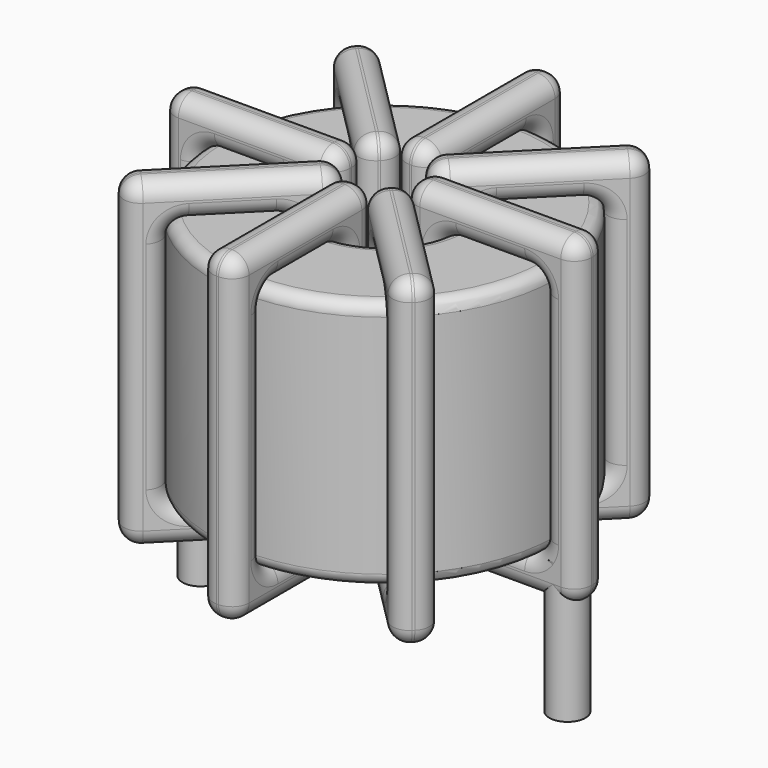
from build123d import *

# Parameters (mm, degrees)
SKETCH001_R       = 0.75
PAD001_DEPTH      = 0.75
PAD001_DEPTH_BACK = 5
SKETCH_R          = 7.15
SKETCH_R_2        = 2.883333
PAD_DEPTH         = 10.4
FILLET_R          = 0.5
SKETCH003_W       = 7.266667
SKETCH003_H       = 13.4
SKETCH003_W_2     = 4.266667
SKETCH003_H_2     = 10.4
PAD002_DEPTH      = 0.75
FILLET001_R       = 0.705
SKETCH004_W       = 7.266667
SKETCH004_H       = 13.4
SKETCH004_W_2     = 4.266667
SKETCH004_H_2     = 10.4
PAD003_DEPTH      = 0.75
FILLET002_R       = 0.705
SKETCH005_W       = 7.266667
SKETCH005_H       = 13.4
SKETCH005_W_2     = 4.266667
SKETCH005_H_2     = 10.4
PAD004_DEPTH      = 0.75
FILLET003_R       = 0.705
SKETCH006_W       = 7.266667
SKETCH006_H       = 13.4
SKETCH006_W_2     = 4.266667
SKETCH006_H_2     = 10.4
PAD005_DEPTH      = 0.75
FILLET004_R       = 0.705


with BuildPart() as pad001:
    # Sketch001 → Pad001 (new body, two sides)
    with BuildSketch(Plane.XY.offset(1.25)) as pad001_sk:
        Circle(SKETCH001_R)
        with Locations((15.24, 0)):
            Circle(SKETCH001_R)
    extrude(amount=PAD001_DEPTH)
    extrude(pad001_sk.sketch, amount=-PAD001_DEPTH_BACK)


with BuildPart() as fillet_body:
    # Sketch → Pad (new body)
    with BuildSketch(Plane.XY.offset(2)):
        with Locations((7.62, 0)):
            Circle(SKETCH_R)
        with Locations((7.62, 0)):
            Circle(SKETCH_R_2, mode=Mode.SUBTRACT)
    extrude(amount=PAD_DEPTH)

    # Fillet
    fillet_edges = [fillet_body.edges().sort_by_distance(p)[0] for p in [
        (4.736667, 0, 12.4),
        (0.47, 0, 12.4),
        (0.47, 0, 2),
    ]]
    fillet(fillet_edges, radius=FILLET_R)


with BuildPart() as fillet001:
    # Sketch003 → Pad002 (new body, symmetric)
    with BuildSketch(Plane(origin=(7.62, 0, 0), x_dir=(1, 0, 0), z_dir=(0, -1, 0))):
        with Locations((-5.016667, 7.2)):
            Rectangle(SKETCH003_W, SKETCH003_H)
        with Locations((-5.016666, 7.2)):
            Rectangle(SKETCH003_W_2, SKETCH003_H_2, mode=Mode.SUBTRACT)
        with Locations((5.016667, 7.2)):
            Rectangle(SKETCH003_W, SKETCH003_H)
        with Locations((5.016666, 7.2)):
            Rectangle(SKETCH003_W_2, SKETCH003_H_2, mode=Mode.SUBTRACT)
    extrude(amount=PAD002_DEPTH, both=True)

    # Fillet001
    fillet001_edges = [fillet001.edges().sort_by_distance(p)[0] for p in [
        (4.736667, 0, 12.4),
        (4.736667, 0, 2),
        (4.736667, 0.75, 7.2),
        (4.736667, -0.75, 7.2),
        (-1.03, 0, 13.9),
        (6.236667, 0, 13.9),
        (2.603333, 0.75, 13.9),
        (2.603333, -0.75, 13.9),
        (6.236667, 0, 0.5),
        (6.236667, 0.75, 7.2),
        (6.236667, -0.75, 7.2),
        (10.503333, 0, 12.4),
        (14.77, 0, 12.4),
        (12.636667, 0.75, 12.4),
        (12.636667, -0.75, 12.4),
        (14.77, 0, 2),
        (14.77, 0.75, 7.2),
        (14.77, -0.75, 7.2),
        (9.003333, 0, 13.9),
        (16.27, 0, 13.9),
        (12.636667, 0.75, 13.9),
        (12.636667, -0.75, 13.9),
        (16.27, 0, 0.5),
        (16.27, 0.75, 7.2),
        (16.27, -0.75, 7.2),
        (0.47, 0, 12.4),
        (2.603333, 0.75, 12.4),
        (2.603333, -0.75, 12.4),
        (10.503333, 0, 2),
        (10.503333, 0.75, 7.2),
        (10.503333, -0.75, 7.2),
        (12.636667, 0.75, 2),
        (12.636667, -0.75, 2),
        (9.003333, 0, 0.5),
        (12.636667, 0.75, 0.5),
        (12.636667, -0.75, 0.5),
        (9.003333, 0.75, 7.2),
        (9.003333, -0.75, 7.2),
        (-1.03, 0, 0.5),
        (2.603333, 0.75, 0.5),
        (2.603333, -0.75, 0.5),
        (-1.03, 0.75, 7.2),
        (-1.03, -0.75, 7.2),
        (0.47, 0, 2),
        (0.47, 0.75, 7.2),
        (0.47, -0.75, 7.2),
        (2.603333, 0.75, 2),
        (2.603333, -0.75, 2),
    ]]
    fillet(fillet001_edges, radius=FILLET001_R)


with BuildPart() as fillet002:
    # Sketch004 → Pad003 (new body, symmetric)
    with BuildSketch(Plane(origin=(7.62, 0, 0), x_dir=(0.707107, 0.707107, 0), z_dir=(0.707107, -0.707107, 0))):
        with Locations((-5.016667, 7.2)):
            Rectangle(SKETCH004_W, SKETCH004_H)
        with Locations((-5.016666, 7.2)):
            Rectangle(SKETCH004_W_2, SKETCH004_H_2, mode=Mode.SUBTRACT)
        with Locations((5.016667, 7.2)):
            Rectangle(SKETCH004_W, SKETCH004_H)
        with Locations((5.016666, 7.2)):
            Rectangle(SKETCH004_W_2, SKETCH004_H_2, mode=Mode.SUBTRACT)
    extrude(amount=PAD003_DEPTH, both=True)

    # Fillet002
    fillet002_edges = [fillet002.edges().sort_by_distance(p)[0] for p in [
        (9.658825, 2.038825, 12.4),
        (12.675813, 5.055813, 2),
        (10.636989, 4.077649, 2),
        (11.697649, 3.016989, 2),
        (13.736474, 6.116474, 0.5),
        (8.598164, 0.978164, 0.5),
        (10.636989, 4.077649, 0.5),
        (11.697649, 3.016989, 0.5),
        (8.598164, 0.978164, 13.9),
        (8.067834, 1.508494, 7.2),
        (9.128494, 0.447834, 7.2),
        (2.564187, -5.055813, 2),
        (2.564187, -5.055813, 12.4),
        (2.033856, -4.525483, 7.2),
        (3.094517, -5.586144, 7.2),
        (5.581175, -2.038825, 2),
        (3.542351, -3.016989, 2),
        (4.603011, -4.077649, 2),
        (6.641836, -0.978164, 13.9),
        (6.641836, -0.978164, 0.5),
        (6.111506, -0.447834, 7.2),
        (7.172166, -1.508494, 7.2),
        (1.503526, -6.116474, 13.9),
        (3.542351, -3.016989, 13.9),
        (4.603011, -4.077649, 13.9),
        (9.658825, 2.038825, 2),
        (9.128494, 2.569155, 7.2),
        (10.189155, 1.508494, 7.2),
        (5.581175, -2.038825, 12.4),
        (3.542351, -3.016989, 12.4),
        (4.603011, -4.077649, 12.4),
        (5.050845, -1.508494, 7.2),
        (6.111506, -2.569155, 7.2),
        (1.503526, -6.116474, 0.5),
        (0.973196, -5.586144, 7.2),
        (2.033856, -6.646804, 7.2),
        (3.542351, -3.016989, 0.5),
        (4.603011, -4.077649, 0.5),
        (13.736474, 6.116474, 13.9),
        (10.636989, 4.077649, 13.9),
        (11.697649, 3.016989, 13.9),
        (13.206144, 6.646804, 7.2),
        (14.266804, 5.586144, 7.2),
        (12.675813, 5.055813, 12.4),
        (10.636989, 4.077649, 12.4),
        (11.697649, 3.016989, 12.4),
        (12.145483, 5.586144, 7.2),
        (13.206144, 4.525483, 7.2),
    ]]
    fillet(fillet002_edges, radius=FILLET002_R)


with BuildPart() as fillet003:
    # Sketch005 → Pad004 (new body, symmetric)
    with BuildSketch(Plane(origin=(7.62, 0, 0), x_dir=(0.707107, -0.707107, 0), z_dir=(-0.707107, -0.707107, 0))):
        with Locations((-5.016667, 7.2)):
            Rectangle(SKETCH005_W, SKETCH005_H)
        with Locations((-5.016666, 7.2)):
            Rectangle(SKETCH005_W_2, SKETCH005_H_2, mode=Mode.SUBTRACT)
        with Locations((5.016667, 7.2)):
            Rectangle(SKETCH005_W, SKETCH005_H)
        with Locations((5.016666, 7.2)):
            Rectangle(SKETCH005_W_2, SKETCH005_H_2, mode=Mode.SUBTRACT)
    extrude(amount=PAD004_DEPTH, both=True)

    # Fillet003
    fillet003_edges = [fillet003.edges().sort_by_distance(p)[0] for p in [
        (5.581175, 2.038825, 12.4),
        (5.581175, 2.038825, 2),
        (6.111506, 2.569155, 7.2),
        (5.050845, 1.508494, 7.2),
        (1.503526, 6.116474, 13.9),
        (6.641836, 0.978164, 13.9),
        (4.603011, 4.077649, 13.9),
        (3.542351, 3.016989, 13.9),
        (6.641836, 0.978164, 0.5),
        (7.172166, 1.508494, 7.2),
        (6.111506, 0.447834, 7.2),
        (9.658825, -2.038825, 12.4),
        (12.675813, -5.055813, 12.4),
        (11.697649, -3.016989, 12.4),
        (10.636989, -4.077649, 12.4),
        (12.675813, -5.055813, 2),
        (13.206144, -4.525483, 7.2),
        (12.145483, -5.586144, 7.2),
        (8.598164, -0.978164, 13.9),
        (13.736474, -6.116474, 13.9),
        (11.697649, -3.016989, 13.9),
        (10.636989, -4.077649, 13.9),
        (13.736474, -6.116474, 0.5),
        (14.266804, -5.586144, 7.2),
        (13.206144, -6.646804, 7.2),
        (2.564187, 5.055813, 12.4),
        (4.603011, 4.077649, 12.4),
        (3.542351, 3.016989, 12.4),
        (9.658825, -2.038825, 2),
        (10.189155, -1.508494, 7.2),
        (9.128494, -2.569155, 7.2),
        (11.697649, -3.016989, 2),
        (10.636989, -4.077649, 2),
        (8.598164, -0.978164, 0.5),
        (11.697649, -3.016989, 0.5),
        (10.636989, -4.077649, 0.5),
        (9.128494, -0.447834, 7.2),
        (8.067834, -1.508494, 7.2),
        (1.503526, 6.116474, 0.5),
        (4.603011, 4.077649, 0.5),
        (3.542351, 3.016989, 0.5),
        (2.033856, 6.646804, 7.2),
        (0.973196, 5.586144, 7.2),
        (2.564187, 5.055813, 2),
        (3.094517, 5.586144, 7.2),
        (2.033856, 4.525483, 7.2),
        (4.603011, 4.077649, 2),
        (3.542351, 3.016989, 2),
    ]]
    fillet(fillet003_edges, radius=FILLET003_R)


with BuildPart() as fillet004:
    # Sketch006 → Pad005 (new body, symmetric)
    with BuildSketch(Plane.YZ.offset(7.62)):
        with Locations((-5.016667, 7.2)):
            Rectangle(SKETCH006_W, SKETCH006_H)
        with Locations((-5.016666, 7.2)):
            Rectangle(SKETCH006_W_2, SKETCH006_H_2, mode=Mode.SUBTRACT)
        with Locations((5.016667, 7.2)):
            Rectangle(SKETCH006_W, SKETCH006_H)
        with Locations((5.016666, 7.2)):
            Rectangle(SKETCH006_W_2, SKETCH006_H_2, mode=Mode.SUBTRACT)
    extrude(amount=PAD005_DEPTH, both=True)

    # Fillet004
    fillet004_edges = [fillet004.edges().sort_by_distance(p)[0] for p in [
        (7.62, -2.883333, 12.4),
        (7.62, -2.883333, 2),
        (6.87, -2.883333, 7.2),
        (8.37, -2.883333, 7.2),
        (7.62, -8.65, 13.9),
        (7.62, -1.383333, 13.9),
        (6.87, -5.016667, 13.9),
        (8.37, -5.016667, 13.9),
        (7.62, -1.383333, 0.5),
        (6.87, -1.383333, 7.2),
        (8.37, -1.383333, 7.2),
        (7.62, 2.883333, 12.4),
        (7.62, 7.15, 12.4),
        (6.87, 5.016667, 12.4),
        (8.37, 5.016667, 12.4),
        (7.62, 7.15, 2),
        (6.87, 7.15, 7.2),
        (8.37, 7.15, 7.2),
        (7.62, 1.383333, 13.9),
        (7.62, 8.65, 13.9),
        (6.87, 5.016667, 13.9),
        (8.37, 5.016667, 13.9),
        (7.62, 8.65, 0.5),
        (6.87, 8.65, 7.2),
        (8.37, 8.65, 7.2),
        (7.62, -7.15, 12.4),
        (6.87, -5.016667, 12.4),
        (8.37, -5.016667, 12.4),
        (7.62, 2.883333, 2),
        (6.87, 2.883333, 7.2),
        (8.37, 2.883333, 7.2),
        (6.87, 5.016667, 2),
        (8.37, 5.016667, 2),
        (7.62, 1.383333, 0.5),
        (6.87, 5.016667, 0.5),
        (8.37, 5.016667, 0.5),
        (6.87, 1.383333, 7.2),
        (8.37, 1.383333, 7.2),
        (7.62, -8.65, 0.5),
        (6.87, -5.016667, 0.5),
        (8.37, -5.016667, 0.5),
        (6.87, -8.65, 7.2),
        (8.37, -8.65, 7.2),
        (7.62, -7.15, 2),
        (6.87, -7.15, 7.2),
        (8.37, -7.15, 7.2),
        (6.87, -5.016667, 2),
        (8.37, -5.016667, 2),
    ]]
    fillet(fillet004_edges, radius=FILLET004_R)


solid = Compound([pad001.part, fillet_body.part, fillet001.part, fillet002.part, fillet003.part, fillet004.part])
